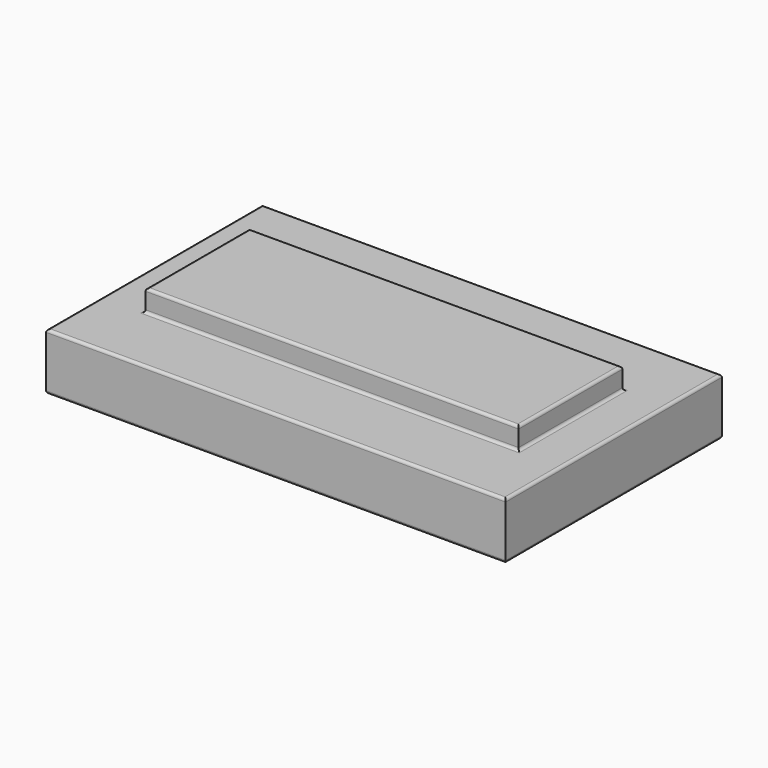
from build123d import *

# Parameters (mm, degrees)
SKETCH_W     = 170
SKETCH_H     = 100
PAD_DEPTH    = 21
SKETCH001_W  = 138
SKETCH001_H  = 48
PAD001_DEPTH = 8
FILLET_R     = 1
FILLET001_R  = 1
FILLET002_R  = 1


with BuildPart() as part:
    # Sketch → Pad (new body)
    with BuildSketch(Plane.XY):
        with Locations((85, 50)):
            Rectangle(SKETCH_W, SKETCH_H)
    extrude(amount=PAD_DEPTH)

    # Sketch001 (on Face6 of Pad) → Pad001 (join)
    with BuildSketch(Plane.XY.offset(21)):
        with Locations((85, 50)):
            Rectangle(SKETCH001_W, SKETCH001_H)
    extrude(amount=PAD001_DEPTH)

    # Fillet
    fillet_edges = [part.edges().sort_by_distance(p)[0] for p in [
        (85, 26, 29),
        (154, 50, 29),
        (85, 74, 29),
        (16, 50, 29),
    ]]
    fillet(fillet_edges, radius=FILLET_R)

    # Fillet001
    fillet001_edges = [part.edges().sort_by_distance(p)[0] for p in [
        (85, 0, 21),
        (0, 50, 21),
        (170, 50, 21),
        (85, 100, 21),
        (85, 26, 21),
        (154, 50, 21),
        (85, 74, 21),
        (16, 50, 21),
    ]]
    fillet(fillet001_edges, radius=FILLET001_R)

    # Fillet002
    fillet002_edges = [part.edges().sort_by_distance(p)[0] for p in [
        (85, 0, 0),
        (170, 50, 0),
        (85, 100, 0),
        (0, 50, 0),
    ]]
    fillet(fillet002_edges, radius=FILLET002_R)


solid = part.part
